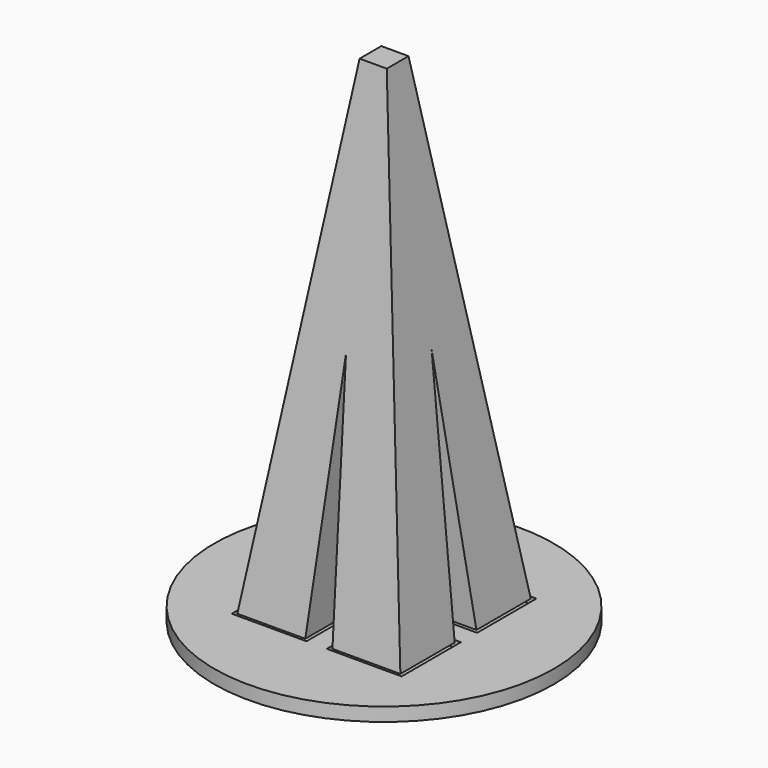
from build123d import *

# Parameters (mm, degrees)
F0_W      = 5
F0_H      = 5
F2_W      = 2
F2_H      = 2
F4_R      = 12.5
F5_DEPTH  = 1
F6_W      = 5.5
F6_H      = 5.45
F7_DEPTH  = 0.5
F3_FACE_W = 2
F3_FACE_H = 2


with BuildPart() as f3:
    # F0 (on Top) → F3 section 0
    with BuildSketch(Plane.XY):
        with Locations((-3.5, 3.5)):
            Rectangle(F0_W, F0_H)
    # F2 (on offset) → F3 section 1
    with BuildSketch(Plane.XY.offset(35.56)):
        Rectangle(F2_W, F2_H)
    loft()

    # F2 (on offset) → F8 section 0
    with BuildSketch(Plane.XY.offset(35.56)):
        Rectangle(F2_W, F2_H)
    # F0 (on Top) → F8 section 1
    with BuildSketch(Plane.XY):
        with Locations((-3.5, -3.5)):
            Rectangle(F0_W, F0_H)
    loft()

    # F0 (on Top) → F9 section 0
    with BuildSketch(Plane.XY):
        with Locations((3.5, 3.5)):
            Rectangle(F0_W, F0_H)
    # F3_face (on face) → F9 section 1
    with BuildSketch(Plane.XY.offset(35.56)):
        Rectangle(F3_FACE_W, F3_FACE_H)
    loft()

    # F0 (on Top) → F10 section 0
    with BuildSketch(Plane.XY):
        with Locations((3.5, -3.5)):
            Rectangle(F0_W, F0_H)
    # F3_face (on face) → F10 section 1
    with BuildSketch(Plane.XY.offset(35.56)):
        Rectangle(F3_FACE_W, F3_FACE_H)
    loft()


with BuildPart() as f5:
    # F4 (on Top) → F5 (new body)
    with BuildSketch(Plane.XY):
        Circle(F4_R)
    extrude(amount=-F5_DEPTH)

    # F6 (on face) → F7 (cut)
    with BuildSketch(Plane.XY):
        with Locations((-3.5, 3.475)):
            Rectangle(F6_W, F6_H)
        with Locations((3.5, 3.475)):
            Rectangle(F6_W, F6_H)
        with Locations((-3.5, -3.475)):
            Rectangle(F6_W, F6_H)
        with Locations((3.5, -3.475)):
            Rectangle(F6_W, F6_H)
    extrude(amount=-F7_DEPTH, mode=Mode.SUBTRACT)


solid = Compound([f3.part, f5.part])
